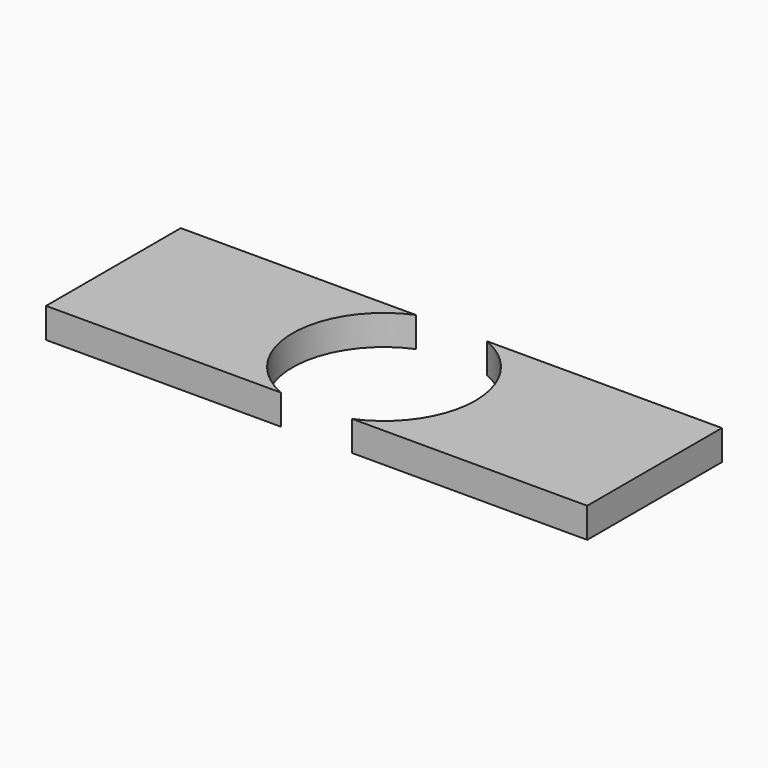
from build123d import *

# Parameters (mm, degrees)
F1_DEPTH = 25


with BuildPart() as f1:
    # F0 (on Top) → F1 (new body)
    with BuildSketch(Plane.XY):
        with BuildLine():
            ThreePointArc((29.597297, 70), (63.345855, 41.991698), (76, 0))
            ThreePointArc((76, 0), (63.345855, -41.991698), (29.597297, -70))
            Line((29.597297, -70), (225, -70))
            Line((225, -70), (225, 70))
            Line((225, 70), (29.597297, 70))
        make_face()
        with BuildLine():
            ThreePointArc((-29.597297, -70), (-76, 0), (-29.597297, 70))
            Line((-29.597297, 70), (-225, 70))
            Line((-225, 70), (-225, -70))
            Line((-225, -70), (-29.597297, -70))
        make_face()
    extrude(amount=F1_DEPTH)


solid = f1.part
